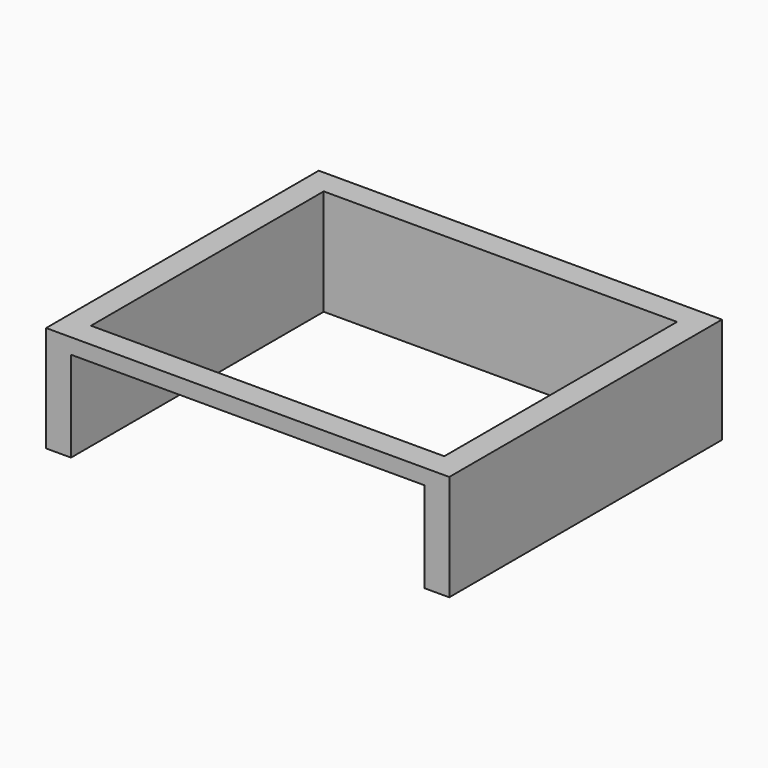
from build123d import *

# Parameters (mm, degrees)
F0_W     = 9700
F0_H     = 8200
F0_W_2   = 8500
F0_H_2   = 7000
F1_DEPTH = 2550
F2_W     = 8500
F2_H     = 2180
F3_DEPTH = 1000


with BuildPart() as f1:
    # F0 (on Top) → F1 (new body)
    with BuildSketch(Plane.XY):
        with Locations((4250, 3500)):
            Rectangle(F0_W, F0_H)
        with Locations((4250, 3500)):
            Rectangle(F0_W_2, F0_H_2, mode=Mode.SUBTRACT)
    extrude(amount=F1_DEPTH)

    # F2 (on face) → F3 (cut)
    with BuildSketch(Plane.XZ.offset(600)):
        with Locations((4250, 1090)):
            Rectangle(F2_W, F2_H)
    extrude(amount=-F3_DEPTH, mode=Mode.SUBTRACT)


solid = f1.part
